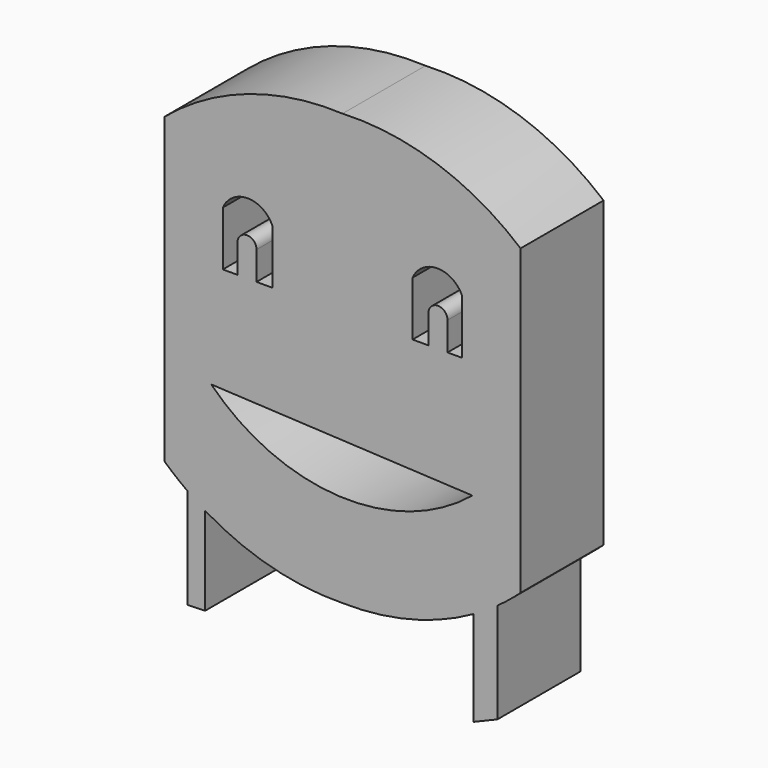
from build123d import *

# Parameters (mm, degrees)
F1_DEPTH = 25


with BuildPart() as f1:
    # F0 (on Front) → F1 (new body)
    with BuildSketch(Plane.XZ):
        with BuildLine():
            ThreePointArc((31.524628, -41.74067), (34.482234, -39.971165), (37.336944, -38.040047))
            ThreePointArc((37.336944, -38.040047), (40.188741, -35.865425), (42.910032, -33.52955))
            Line((42.910032, -33.52955), (42.910032, 39.535794))
            ThreePointArc((42.910032, 39.535794), (22.83568, 50.899702), (0, 54.163095))
            ThreePointArc((0, 54.163095), (-22.83568, 50.899702), (-42.910032, 39.535794))
            Line((-42.910032, 39.535794), (-42.910032, -33.52955))
            ThreePointArc((-42.910032, -33.52955), (-40.188741, -35.865425), (-37.336944, -38.040047))
            ThreePointArc((-37.336944, -38.040047), (-35.258682, -39.468633), (-33.124044, -40.81152))
            ThreePointArc((-33.124044, -40.81152), (-17.185862, -47.571204), (0, -49.660496))
            ThreePointArc((0, -49.660496), (16.290558, -47.803241), (31.524628, -41.74067))
        make_face()
        with BuildLine():
            ThreePointArc((31.285256, -16.673503), (-0.778877, -27.258788), (-31.63917, -13.554801))
            ThreePointArc((-31.63917, -13.554801), (-0.177021, -15.115437), (31.285256, -16.673503))
        make_face(mode=Mode.SUBTRACT)
        with BuildLine():
            Line((-25.309497, 11.731247), (-28.83604, 11.731247))
            Line((-28.83604, 11.731247), (-28.83604, 24.857815))
            ThreePointArc((-28.83604, 24.857815), (-22.860512, 28.786769), (-16.884984, 24.857815))
            Line((-16.884984, 24.857815), (-16.884984, 11.731247))
            Line((-16.884984, 11.731247), (-20.711496, 11.731247))
            Line((-20.711496, 11.731247), (-25.309497, 11.731247))
        make_face(mode=Mode.SUBTRACT)
        with BuildLine():
            Line((20.711496, 11.731247), (16.884984, 11.731247))
            Line((16.884984, 11.731247), (16.884984, 24.857815))
            ThreePointArc((16.884984, 24.857815), (22.860512, 28.786769), (28.83604, 24.857815))
            Line((28.83604, 24.857815), (28.83604, 11.731247))
            Line((28.83604, 11.731247), (25.309497, 11.731247))
            Line((25.309497, 11.731247), (20.711496, 11.731247))
        make_face(mode=Mode.SUBTRACT)
        with BuildLine():
            Line((-25.309497, 18.588411), (-25.309497, 11.731247))
            Line((-25.309497, 11.731247), (-20.711496, 11.731247))
            Line((-20.711496, 11.731247), (-20.711496, 18.588411))
            ThreePointArc((-20.711496, 18.588411), (-23.010497, 20.887411), (-25.309497, 18.588411))
        make_face()
        with BuildLine():
            Line((20.711496, 18.588411), (20.711496, 11.731247))
            Line((20.711496, 11.731247), (25.309497, 11.731247))
            Line((25.309497, 11.731247), (25.309497, 18.588411))
            ThreePointArc((25.309497, 18.588411), (23.010497, 20.887411), (20.711496, 18.588411))
        make_face()
        with BuildLine():
            Line((-33.124044, -62.074588), (-33.124044, -40.81152))
            ThreePointArc((-33.124044, -40.81152), (-35.258682, -39.468633), (-37.336944, -38.040047))
            Line((-37.336944, -38.040047), (-37.336944, -62.185542))
            Line((-37.336944, -62.185542), (-33.124044, -62.074588))
        make_face()
        with BuildLine():
            Line((31.524628, -64.615463), (37.336944, -62.185542))
            Line((37.336944, -62.185542), (37.336944, -38.040047))
            ThreePointArc((37.336944, -38.040047), (34.482234, -39.971165), (31.524628, -41.74067))
            Line((31.524628, -41.74067), (31.524628, -64.615463))
        make_face()
    extrude(amount=F1_DEPTH)


solid = f1.part
